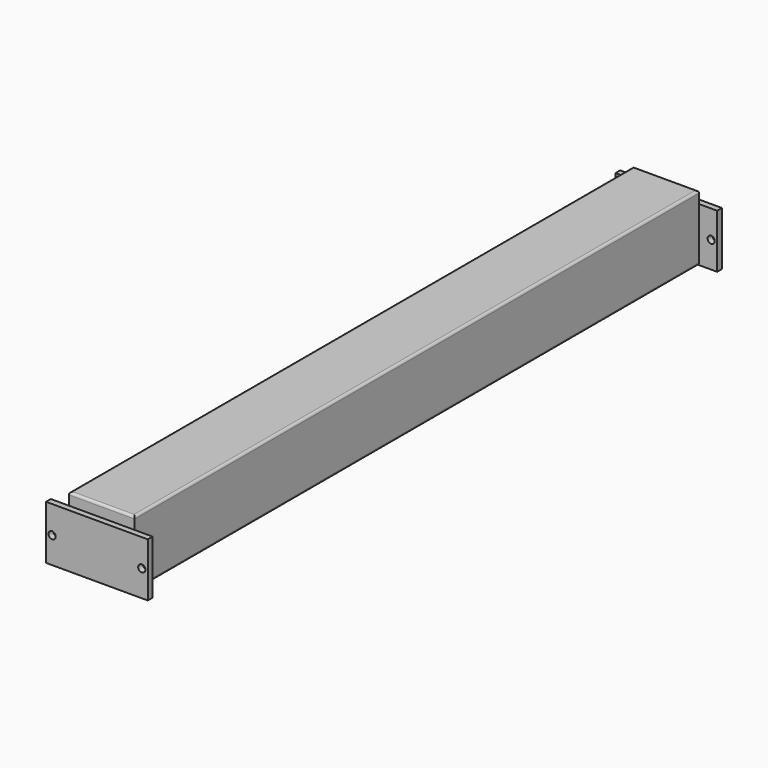
from build123d import *

# Parameters (mm, degrees)
F0_W     = 55
F0_H     = 55
F1_DEPTH = 590
F2_W     = 15
F2_H     = 45
F2_R     = 3
F2_W_2   = 55
F3_DEPTH = 5
F4_W     = 15
F4_H     = 45
F4_R     = 3
F4_W_2   = 55
F5_DEPTH = 5
F6_R     = 2


with BuildPart() as f1:
    # F0 (on Front) → F1 (new body)
    with BuildSketch(Plane.XZ):
        with Locations((0, 27.5)):
            Rectangle(F0_W, F0_H)
    extrude(amount=F1_DEPTH)

    # F2 (on face) → F3 (join)
    with BuildSketch(Plane(origin=(0, 0, 0), x_dir=(-1, 0, 0), z_dir=(0, 1, 0))):
        with Locations((-35, 22.5)):
            Rectangle(F2_W, F2_H)
        with Locations((-37.5, 22)):
            Circle(F2_R, mode=Mode.SUBTRACT)
        with Locations((0, 22.5)):
            Rectangle(F2_W_2, F2_H)
        with Locations((35, 22.5)):
            Rectangle(F2_W, F2_H)
        with Locations((37.5, 22)):
            Circle(F2_R, mode=Mode.SUBTRACT)
    extrude(amount=F3_DEPTH)

    # F4 (on face) → F5 (join)
    with BuildSketch(Plane.XZ.offset(590)):
        with Locations((-35, 22.5)):
            Rectangle(F4_W, F4_H)
        with Locations((-37.5, 22)):
            Circle(F4_R, mode=Mode.SUBTRACT)
        with Locations((0, 22.5)):
            Rectangle(F4_W_2, F4_H)
        with Locations((35, 22.5)):
            Rectangle(F4_W, F4_H)
        with Locations((37.5, 22)):
            Circle(F4_R, mode=Mode.SUBTRACT)
    extrude(amount=F5_DEPTH)

    # F6
    f6_edges = [f1.edges().sort_by_distance(p)[0] for p in [
        (27.5, -295, 55),
        (-27.5, -295, 55),
        (0, 0, 55),
        (0, -590, 55),
        (-27.5, -295, 0),
        (27.5, -295, 0),
    ]]
    fillet(f6_edges, radius=F6_R)


solid = f1.part
